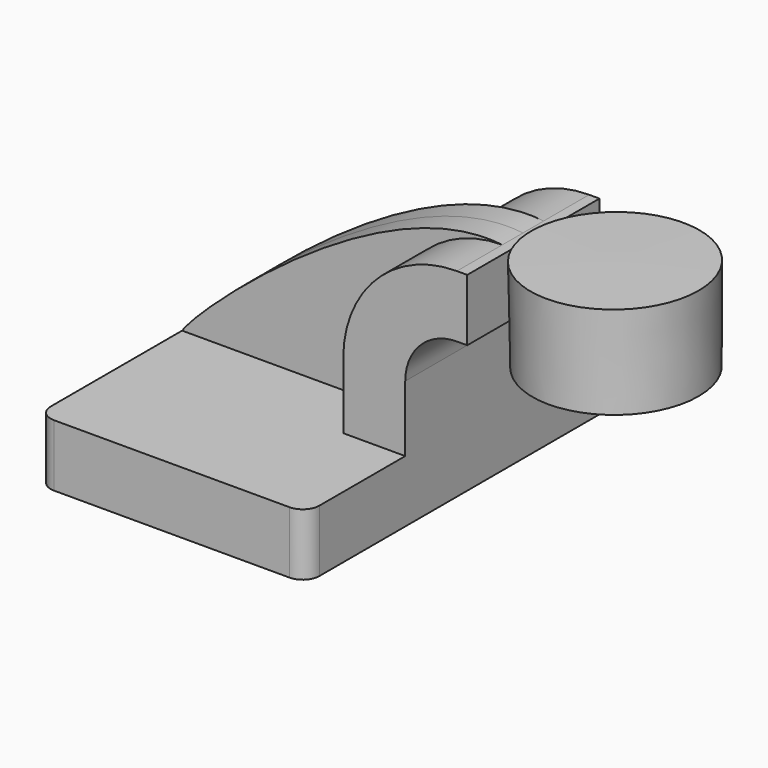
from build123d import *

# Parameters (mm, degrees)
F1_DEPTH = 63.5
F2_DEPTH = 25.4
F3_DEPTH = 7.9375
F5_R     = 5.08


with BuildPart() as f1:
    # F0 (on Front) → F1 (new body, symmetric)
    with BuildSketch(Plane.XZ):
        Polygon((-41.275, -9.525), (41.275, -9.525), (41.275, 9.525), (22.225, 9.525), (-41.275, 9.525), align=None)
    extrude(amount=F1_DEPTH, both=True)

    # F0 (on Front) → F2 (join, symmetric)
    with BuildSketch(Plane.XZ):
        with BuildLine():
            Line((22.225, 9.525), (41.275, 9.525))
            Line((41.275, 9.525), (41.275, 29.8189983006))
            ThreePointArc((41.275, 29.8189983006), (45.9246798487, 41.0443184519), (57.15, 45.6939983006))
            Line((57.15, 45.6939983006), (60.325, 45.6939983006))
            Line((60.325, 45.6939983006), (60.325, 64.7439983006))
            Line((60.325, 64.7439983006), (57.15, 64.7439983006))
            ThreePointArc((57.15, 64.7439983006), (32.4542956671, 54.5147026335), (22.225, 29.8189983006))
            Line((22.225, 29.8189983006), (22.225, 9.525))
        make_face()
    extrude(amount=F2_DEPTH, both=True)

    # F0 (on Front) → F3 (join, symmetric)
    with BuildSketch(Plane.XZ):
        with BuildLine():
            add(Edge.make_bspline(
                [(-41.275, 9.525), (-36.6270914674, 16.9778186828), (19.4735266268, 69.1415518522), (57.15, 64.7439983006)],
                knots=[0, 0, 0, 0, 112.8566276225, 112.8566276225, 112.8566276225, 112.8566276225], degree=3))
            Line((-41.275, 9.525), (22.225, 9.525))
            Line((22.225, 9.525), (22.225, 29.8189983006))
            ThreePointArc((22.225, 29.8189983006), (32.4542956671, 54.5147026335), (57.15, 64.7439983006))
        make_face()
    extrude(amount=F3_DEPTH, both=True)

    # F0 (on Front) → F4 (revolve)
    with BuildSketch(Plane.XZ):
        Polygon((85.416354239, 66.675), (85.6429753146, 45.6939983006), (85.725, 38.1), (111.125, 38.1), (111.125, 66.675), align=None)
    revolve(axis=Axis((85.5706771195, 0, 52.3875), (0.0108006215, 0, -0.9999416716)))

    # F5
    f5_edges = [f1.edges().sort_by_distance(p)[0] for p in [
        (41.275, -63.5, 0),
        (-41.275, -63.5, 0),
        (-41.275, 63.5, 0),
        (41.275, 63.5, 0),
    ]]
    fillet(f5_edges, radius=F5_R)


solid = f1.part
